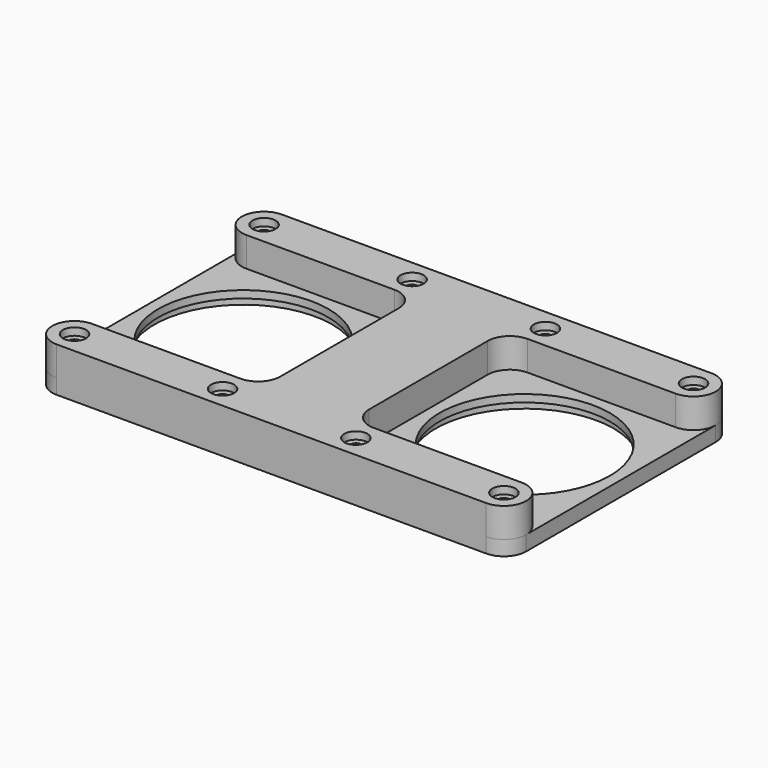
from build123d import *

# Parameters (mm, degrees)
F0_R     = 2.413
F1_DEPTH = 12.7
F2_R     = 2.413
F2_R_2   = 36.5125
F3_DEPTH = 3.175
F4_R     = 2.794
F4_R_2   = 38.1
F5_DEPTH = 3.175
F6_R     = 4.953
F6_R_2   = 2.413
F7_DEPTH = 3.175
F8_R     = 4.953
F9_DEPTH = 3.175


with BuildPart() as f1:
    # F0 (on Top) → F1 (new body)
    with BuildSketch(Plane.XY):
        with BuildLine():
            Line((31.75, -41.275), (-31.75, -41.275))
            ThreePointArc((-31.75, -41.275), (-41.275, -50.8), (-31.75, -60.325))
            Line((-31.75, -60.325), (31.75, -60.325))
            Line((31.75, -60.325), (88.9, -60.325))
            Line((88.9, -60.325), (152.4, -60.325))
            ThreePointArc((152.4, -60.325), (161.925, -50.8), (152.4, -41.275))
            Line((152.4, -41.275), (88.9, -41.275))
            ThreePointArc((88.9, -41.275), (82.164808, -38.485192), (79.375, -31.75))
            Line((79.375, -31.75), (79.375, 31.75))
            ThreePointArc((79.375, 31.75), (82.164808, 38.485192), (88.9, 41.275))
            Line((88.9, 41.275), (152.4, 41.275))
            ThreePointArc((152.4, 41.275), (161.925, 50.8), (152.4, 60.325))
            Line((152.4, 60.325), (88.9, 60.325))
            Line((88.9, 60.325), (31.75, 60.325))
            Line((31.75, 60.325), (-31.75, 60.325))
            ThreePointArc((-31.75, 60.325), (-41.275, 50.8), (-31.75, 41.275))
            Line((-31.75, 41.275), (31.75, 41.275))
            ThreePointArc((31.75, 41.275), (38.485192, 38.485192), (41.275, 31.75))
            Line((41.275, 31.75), (41.275, -31.75))
            ThreePointArc((41.275, -31.75), (38.485192, -38.485192), (31.75, -41.275))
        make_face()
        with Locations((-31.75, -50.8)):
            Circle(F0_R, mode=Mode.SUBTRACT)
        with Locations((31.75, -50.8)):
            Circle(F0_R, mode=Mode.SUBTRACT)
        with Locations((88.9, -50.8)):
            Circle(F0_R, mode=Mode.SUBTRACT)
        with Locations((152.4, -50.8)):
            Circle(F0_R, mode=Mode.SUBTRACT)
        with Locations((-31.75, 50.8)):
            Circle(F0_R, mode=Mode.SUBTRACT)
        with Locations((31.75, 50.8)):
            Circle(F0_R, mode=Mode.SUBTRACT)
        with Locations((88.9, 50.8)):
            Circle(F0_R, mode=Mode.SUBTRACT)
        with Locations((152.4, 50.8)):
            Circle(F0_R, mode=Mode.SUBTRACT)
    extrude(amount=F1_DEPTH)

    # F2 (on face) → F3 (join)
    with BuildSketch(Plane(origin=(0, 0, 0), x_dir=(1, 0, 0), z_dir=(0, 0, -1))):
        with BuildLine():
            ThreePointArc((152.4, 41.275), (159.135192, 44.064808), (161.925, 50.8))
            ThreePointArc((161.925, 50.8), (159.135192, 57.535192), (152.4, 60.325))
            Line((152.4, 60.325), (60.325, 60.325))
            Line((60.325, 60.325), (-31.75, 60.325))
            ThreePointArc((-31.75, 60.325), (-38.485192, 57.535192), (-41.275, 50.8))
            ThreePointArc((-41.275, 50.8), (-38.485192, 44.064808), (-31.75, 41.275))
            Line((-31.75, 41.275), (31.75, 41.275))
            ThreePointArc((31.75, 41.275), (38.485192, 38.485192), (41.275, 31.75))
            Line((41.275, 31.75), (41.275, -31.75))
            ThreePointArc((41.275, -31.75), (38.485192, -38.485192), (31.75, -41.275))
            Line((31.75, -41.275), (-31.75, -41.275))
            ThreePointArc((-31.75, -41.275), (-38.485192, -44.064808), (-41.275, -50.8))
            ThreePointArc((-41.275, -50.8), (-38.485192, -57.535192), (-31.75, -60.325))
            Line((-31.75, -60.325), (152.4, -60.325))
            ThreePointArc((152.4, -60.325), (159.135192, -57.535192), (161.925, -50.8))
            ThreePointArc((161.925, -50.8), (159.135192, -44.064808), (152.4, -41.275))
            Line((152.4, -41.275), (88.9, -41.275))
            ThreePointArc((88.9, -41.275), (82.164808, -38.485192), (79.375, -31.75))
            Line((79.375, -31.75), (79.375, 31.75))
            ThreePointArc((79.375, 31.75), (82.164808, 38.485192), (88.9, 41.275))
            Line((88.9, 41.275), (152.4, 41.275))
        make_face()
        with Locations((-31.75, -50.8)):
            Circle(F2_R, mode=Mode.SUBTRACT)
        with Locations((31.75, -50.8)):
            Circle(F2_R, mode=Mode.SUBTRACT)
        with Locations((88.9, -50.8)):
            Circle(F2_R, mode=Mode.SUBTRACT)
        with Locations((152.4, -50.8)):
            Circle(F2_R, mode=Mode.SUBTRACT)
        with Locations((-31.75, 50.8)):
            Circle(F2_R, mode=Mode.SUBTRACT)
        with Locations((31.75, 50.8)):
            Circle(F2_R, mode=Mode.SUBTRACT)
        with Locations((88.9, 50.8)):
            Circle(F2_R, mode=Mode.SUBTRACT)
        with Locations((152.4, 50.8)):
            Circle(F2_R, mode=Mode.SUBTRACT)
        with BuildLine():
            Line((161.925, -50.8), (161.925, 50.8))
            ThreePointArc((161.925, 50.8), (159.135192, 44.064808), (152.4, 41.275))
            Line((152.4, 41.275), (88.9, 41.275))
            ThreePointArc((88.9, 41.275), (82.164808, 38.485192), (79.375, 31.75))
            Line((79.375, 31.75), (79.375, -31.75))
            ThreePointArc((79.375, -31.75), (82.164808, -38.485192), (88.9, -41.275))
            Line((88.9, -41.275), (152.4, -41.275))
            ThreePointArc((152.4, -41.275), (159.135192, -44.064808), (161.925, -50.8))
        make_face()
        with Locations((120.65, 0)):
            Circle(F2_R_2, mode=Mode.SUBTRACT)
        with BuildLine():
            ThreePointArc((-31.75, 41.275), (-38.485192, 44.064808), (-41.275, 50.8))
            Line((-41.275, 50.8), (-41.275, -50.8))
            ThreePointArc((-41.275, -50.8), (-38.485192, -44.064808), (-31.75, -41.275))
            Line((-31.75, -41.275), (31.75, -41.275))
            ThreePointArc((31.75, -41.275), (38.485192, -38.485192), (41.275, -31.75))
            Line((41.275, -31.75), (41.275, 31.75))
            ThreePointArc((41.275, 31.75), (38.485192, 38.485192), (31.75, 41.275))
            Line((31.75, 41.275), (-31.75, 41.275))
        make_face()
        Circle(F2_R_2, mode=Mode.SUBTRACT)
    extrude(amount=F3_DEPTH)

    # F4 (on face) → F5 (join)
    with BuildSketch(Plane(origin=(0, 0, -3.175), x_dir=(1, 0, 0), z_dir=(0, 0, -1))):
        with BuildLine():
            Line((-31.75, -60.325), (152.4, -60.325))
            ThreePointArc((152.4, -60.325), (159.135192, -57.535192), (161.925, -50.8))
            ThreePointArc((161.925, -50.8), (159.135192, -44.064808), (152.4, -41.275))
            Line((152.4, -41.275), (88.9, -41.275))
            ThreePointArc((88.9, -41.275), (82.164808, -38.485192), (79.375, -31.75))
            Line((79.375, -31.75), (79.375, 31.75))
            ThreePointArc((79.375, 31.75), (82.164808, 38.485192), (88.9, 41.275))
            Line((88.9, 41.275), (152.4, 41.275))
            ThreePointArc((152.4, 41.275), (159.135192, 44.064808), (161.925, 50.8))
            ThreePointArc((161.925, 50.8), (159.135192, 57.535192), (152.4, 60.325))
            Line((152.4, 60.325), (-31.75, 60.325))
            ThreePointArc((-31.75, 60.325), (-38.485192, 57.535192), (-41.275, 50.8))
            ThreePointArc((-41.275, 50.8), (-38.485192, 44.064808), (-31.75, 41.275))
            Line((-31.75, 41.275), (31.75, 41.275))
            ThreePointArc((31.75, 41.275), (38.485192, 38.485192), (41.275, 31.75))
            Line((41.275, 31.75), (41.275, -31.75))
            ThreePointArc((41.275, -31.75), (38.485192, -38.485192), (31.75, -41.275))
            Line((31.75, -41.275), (-31.75, -41.275))
            ThreePointArc((-31.75, -41.275), (-38.485192, -44.064808), (-41.275, -50.8))
            ThreePointArc((-41.275, -50.8), (-38.485192, -57.535192), (-31.75, -60.325))
        make_face()
        with Locations((-31.75, -50.8)):
            Circle(F4_R, mode=Mode.SUBTRACT)
        with Locations((31.75, -50.8)):
            Circle(F4_R, mode=Mode.SUBTRACT)
        with Locations((88.9, -50.8)):
            Circle(F4_R, mode=Mode.SUBTRACT)
        with Locations((152.4, -50.8)):
            Circle(F4_R, mode=Mode.SUBTRACT)
        with Locations((-31.75, 50.8)):
            Circle(F4_R, mode=Mode.SUBTRACT)
        with Locations((31.75, 50.8)):
            Circle(F4_R, mode=Mode.SUBTRACT)
        with Locations((88.9, 50.8)):
            Circle(F4_R, mode=Mode.SUBTRACT)
        with Locations((152.4, 50.8)):
            Circle(F4_R, mode=Mode.SUBTRACT)
        with BuildLine():
            Line((-41.275, 50.8), (-41.275, -50.8))
            ThreePointArc((-41.275, -50.8), (-38.485192, -44.064808), (-31.75, -41.275))
            Line((-31.75, -41.275), (31.75, -41.275))
            ThreePointArc((31.75, -41.275), (38.485192, -38.485192), (41.275, -31.75))
            Line((41.275, -31.75), (41.275, 31.75))
            ThreePointArc((41.275, 31.75), (38.485192, 38.485192), (31.75, 41.275))
            Line((31.75, 41.275), (-31.75, 41.275))
            ThreePointArc((-31.75, 41.275), (-38.485192, 44.064808), (-41.275, 50.8))
        make_face()
        Circle(F4_R_2, mode=Mode.SUBTRACT)
        with BuildLine():
            ThreePointArc((152.4, -41.275), (159.135192, -44.064808), (161.925, -50.8))
            Line((161.925, -50.8), (161.925, 50.8))
            ThreePointArc((161.925, 50.8), (159.135192, 44.064808), (152.4, 41.275))
            Line((152.4, 41.275), (88.9, 41.275))
            ThreePointArc((88.9, 41.275), (82.164808, 38.485192), (79.375, 31.75))
            Line((79.375, 31.75), (79.375, -31.75))
            ThreePointArc((79.375, -31.75), (82.164808, -38.485192), (88.9, -41.275))
            Line((88.9, -41.275), (152.4, -41.275))
        make_face()
        with Locations((120.65, 0)):
            Circle(F4_R_2, mode=Mode.SUBTRACT)
    extrude(amount=F5_DEPTH)

    # F6 (on face) → F7 (cut)
    with BuildSketch(Plane.XY.offset(12.7)):
        with Locations((-31.75, 50.8)):
            Circle(F6_R)
        with Locations((-31.75, 50.8)):
            Circle(F6_R_2, mode=Mode.SUBTRACT)
        with Locations((31.75, 50.8)):
            Circle(F6_R)
        with Locations((31.75, 50.8)):
            Circle(F6_R_2, mode=Mode.SUBTRACT)
        with Locations((88.9, 50.8)):
            Circle(F6_R)
        with Locations((88.9, 50.8)):
            Circle(F6_R_2, mode=Mode.SUBTRACT)
        with Locations((152.4, 50.8)):
            Circle(F6_R)
        with Locations((152.4, 50.8)):
            Circle(F6_R_2, mode=Mode.SUBTRACT)
        with Locations((-31.75, -50.8)):
            Circle(F6_R)
        with Locations((-31.75, -50.8)):
            Circle(F6_R_2, mode=Mode.SUBTRACT)
        with Locations((31.75, -50.8)):
            Circle(F6_R)
        with Locations((31.75, -50.8)):
            Circle(F6_R_2, mode=Mode.SUBTRACT)
        with Locations((88.9, -50.8)):
            Circle(F6_R)
        with Locations((88.9, -50.8)):
            Circle(F6_R_2, mode=Mode.SUBTRACT)
        with Locations((152.4, -50.8)):
            Circle(F6_R)
        with Locations((152.4, -50.8)):
            Circle(F6_R_2, mode=Mode.SUBTRACT)
    extrude(amount=-F7_DEPTH, mode=Mode.SUBTRACT)

    # F8 (on face) → F9 (cut)
    with BuildSketch(Plane(origin=(0, 0, -6.35), x_dir=(1, 0, 0), z_dir=(0, 0, -1))):
        with Locations((-31.75, 50.8)):
            Circle(F8_R)
        with Locations((31.75, 50.8)):
            Circle(F8_R)
        with Locations((88.9, 50.8)):
            Circle(F8_R)
        with Locations((152.4, 50.8)):
            Circle(F8_R)
        with Locations((-31.75, -50.8)):
            Circle(F8_R)
        with Locations((31.75, -50.8)):
            Circle(F8_R)
        with Locations((88.9, -50.8)):
            Circle(F8_R)
        with Locations((152.4, -50.8)):
            Circle(F8_R)
    extrude(amount=-F9_DEPTH, mode=Mode.SUBTRACT)


solid = f1.part
